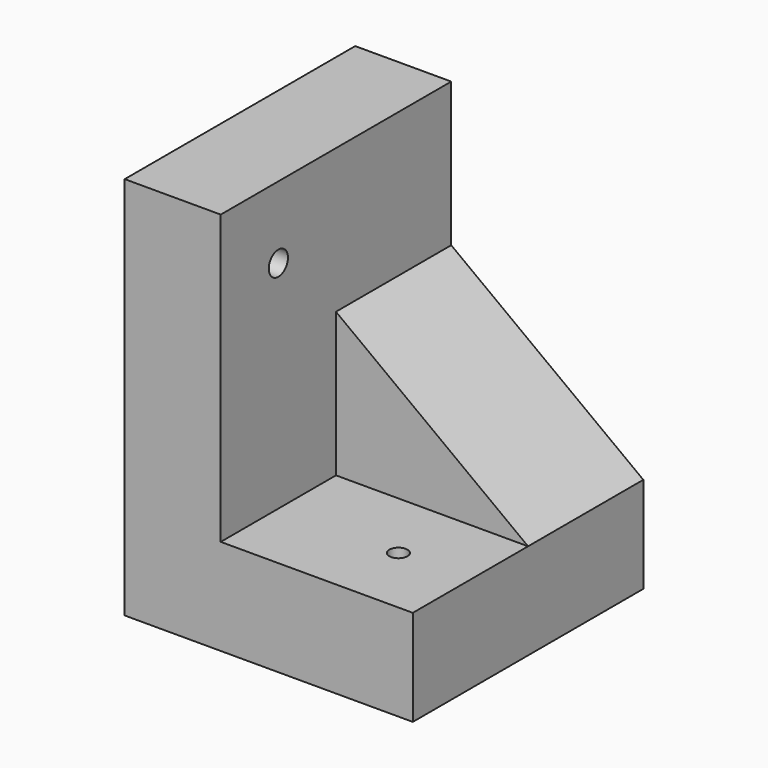
from build123d import *

# Parameters (mm, degrees)
F1_DEPTH = 152.4
F2_W     = 101.6
F2_H     = 76.2
F3_DEPTH = 76.2
F5_DEPTH = 76.2
F8_D     = 9.525
F9_D     = 12.7


with BuildPart() as f1:
    # F0 (on Front) → F1 (new body)
    with BuildSketch(Plane.XZ):
        Polygon((0, 55.177931), (-50.8, 55.177931), (-50.8, -148.022069), (101.6, -148.022069), (101.6, -97.222069), (0, -97.222069), align=None)
    extrude(amount=F1_DEPTH)

    # F2 (on face) → F3 (join)
    with BuildSketch(Plane.XY.offset(-97.222069)):
        with Locations((50.8, -38.1)):
            Rectangle(F2_W, F2_H)
    extrude(amount=F3_DEPTH)

    # F4 (on face) → F5 (cut)
    with BuildSketch(Plane.XZ.offset(76.2)):
        Polygon((101.6, -21.022069), (0, -21.022069), (101.6, -97.222069), align=None)
    extrude(amount=-F5_DEPTH, mode=Mode.SUBTRACT)

    # F8 (through all)
    with Locations(Plane.XY.offset(-97.222069)):
        with Locations((63.5, -114.3)):
            Hole(F8_D / 2)

    # F9 (through all)
    with Locations(Plane.YZ):
        with Locations((-114.3, 17.077931)):
            Hole(F9_D / 2)


solid = f1.part
